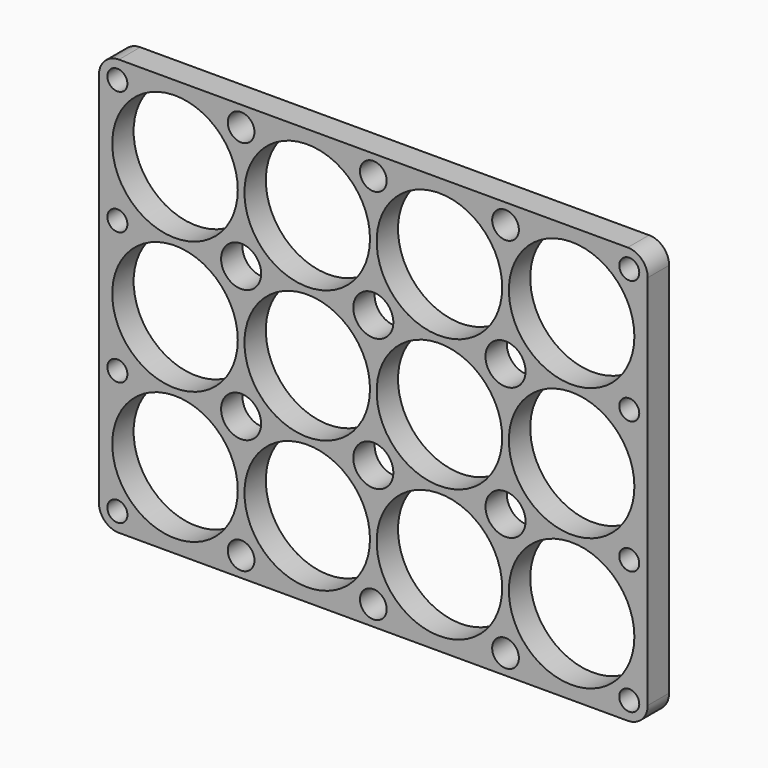
from build123d import *

# Parameters (mm, degrees)
F0_W     = 82.2
F0_H     = 62.4
F0_R     = 1.5
F0_R_2   = 9.4
F0_R_3   = 2
F0_R_4   = 3
F1_DEPTH = 4
F2_R     = 3


with BuildPart() as f1:
    # F0 (on Front) → F1 (new body)
    with BuildSketch(Plane.XZ):
        with Locations((29.7, 19.8)):
            Rectangle(F0_W, F0_H)
        with Locations((-8.630646, -8.630646)):
            Circle(F0_R, mode=Mode.SUBTRACT)
        Circle(F0_R_2, mode=Mode.SUBTRACT)
        with Locations((9.9, -8.425556)):
            Circle(F0_R_3, mode=Mode.SUBTRACT)
        with Locations((19.8, 0)):
            Circle(F0_R_2, mode=Mode.SUBTRACT)
        with Locations((-8.630646, 9.9)):
            Circle(F0_R, mode=Mode.SUBTRACT)
        with Locations((9.9, 9.9)):
            Circle(F0_R_4, mode=Mode.SUBTRACT)
        with Locations((29.7, -8.425556)):
            Circle(F0_R_3, mode=Mode.SUBTRACT)
        with Locations((49.5, -8.425556)):
            Circle(F0_R_3, mode=Mode.SUBTRACT)
        with Locations((39.6, 0)):
            Circle(F0_R_2, mode=Mode.SUBTRACT)
        with Locations((68.030646, -8.630646)):
            Circle(F0_R, mode=Mode.SUBTRACT)
        with Locations((59.4, 0)):
            Circle(F0_R_2, mode=Mode.SUBTRACT)
        with Locations((29.7, 9.9)):
            Circle(F0_R_4, mode=Mode.SUBTRACT)
        with Locations((49.5, 9.9)):
            Circle(F0_R_4, mode=Mode.SUBTRACT)
        with Locations((68.030646, 9.9)):
            Circle(F0_R, mode=Mode.SUBTRACT)
        with Locations((0, 19.8)):
            Circle(F0_R_2, mode=Mode.SUBTRACT)
        with Locations((-8.630646, 29.7)):
            Circle(F0_R, mode=Mode.SUBTRACT)
        with Locations((19.8, 19.8)):
            Circle(F0_R_2, mode=Mode.SUBTRACT)
        with Locations((9.9, 29.7)):
            Circle(F0_R_4, mode=Mode.SUBTRACT)
        with Locations((0, 39.6)):
            Circle(F0_R_2, mode=Mode.SUBTRACT)
        with Locations((-8.630646, 48.230646)):
            Circle(F0_R, mode=Mode.SUBTRACT)
        with Locations((19.8, 39.6)):
            Circle(F0_R_2, mode=Mode.SUBTRACT)
        with Locations((9.9, 48.025556)):
            Circle(F0_R_3, mode=Mode.SUBTRACT)
        with Locations((39.6, 19.8)):
            Circle(F0_R_2, mode=Mode.SUBTRACT)
        with Locations((29.7, 29.7)):
            Circle(F0_R_4, mode=Mode.SUBTRACT)
        with Locations((49.5, 29.7)):
            Circle(F0_R_4, mode=Mode.SUBTRACT)
        with Locations((59.4, 19.8)):
            Circle(F0_R_2, mode=Mode.SUBTRACT)
        with Locations((68.030646, 29.7)):
            Circle(F0_R, mode=Mode.SUBTRACT)
        with Locations((39.6, 39.6)):
            Circle(F0_R_2, mode=Mode.SUBTRACT)
        with Locations((29.7, 48.025556)):
            Circle(F0_R_3, mode=Mode.SUBTRACT)
        with Locations((49.5, 48.025556)):
            Circle(F0_R_3, mode=Mode.SUBTRACT)
        with Locations((59.4, 39.6)):
            Circle(F0_R_2, mode=Mode.SUBTRACT)
        with Locations((68.030646, 48.230646)):
            Circle(F0_R, mode=Mode.SUBTRACT)
    extrude(amount=F1_DEPTH)

    # F2
    f2_edges = [f1.edges().sort_by_distance(p)[0] for p in [
        (70.8, -2, 51),
        (-11.4, -2, 51),
        (-11.4, -2, -11.4),
        (70.8, -2, -11.4),
    ]]
    fillet(f2_edges, radius=F2_R)


solid = f1.part
